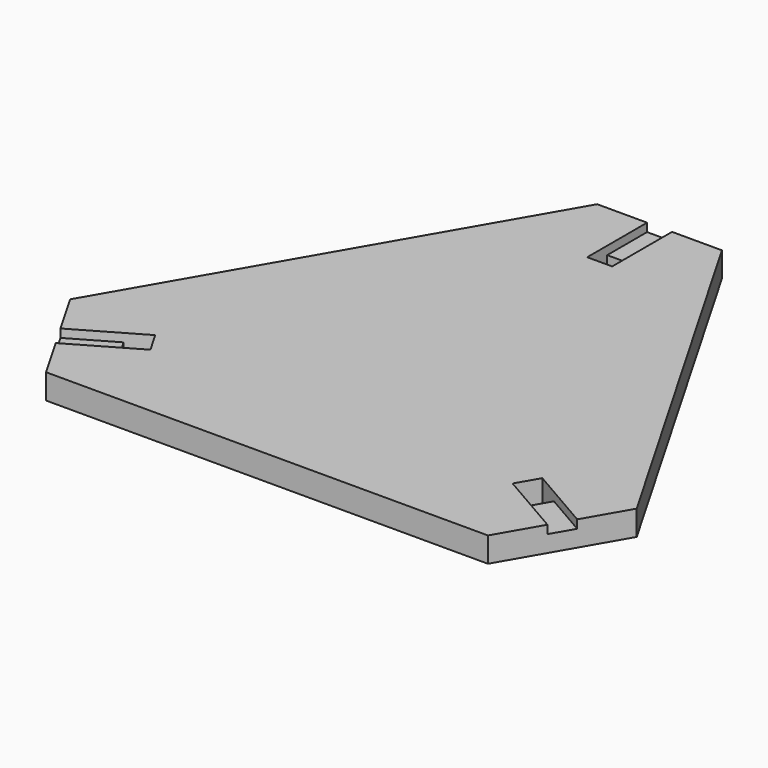
from build123d import *

# Parameters (mm, degrees)
F1_DEPTH = 19.05
F2_W     = 19.05
F2_H     = 19.05
F3_DEPTH = 19.05
F4_W     = 19.05
F4_H     = 38.1
F5_DEPTH = 6.35


with BuildPart() as f1:
    # F0 (on Top) → F1 (new body)
    with BuildSketch(Plane.XY):
        Polygon((47.625, 222.31108), (-47.625, 222.31108), (-216.339543, -69.91108), (-168.714543, -152.4), (168.714543, -152.4), (216.339543, -69.91108), align=None)
    extrude(amount=F1_DEPTH)

    # F2 (on face) → F3 (cut, through all)
    with BuildSketch(Plane.XY.offset(19.05)):
        with Locations((0, 174.68608)):
            Rectangle(F2_W, F2_H)
        Polygon((154.768975, -100.354432), (164.293975, -83.856648), (147.796191, -74.331648), (138.271191, -90.829432), align=None)
        Polygon((-164.293975, -83.856648), (-154.768975, -100.354432), (-138.271191, -90.829432), (-147.796191, -74.331648), align=None)
    extrude(amount=-F3_DEPTH, mode=Mode.SUBTRACT)

    # F4 (on face) → F5 (cut)
    with BuildSketch(Plane.XY.offset(19.05)):
        Polygon((-154.768975, -100.354432), (-164.293975, -83.856648), (-197.289543, -102.906648), (-187.764543, -119.404432), align=None)
        Polygon((197.289543, -102.906648), (164.293975, -83.856648), (154.768975, -100.354432), (187.764543, -119.404432), align=None)
        with Locations((0, 203.26108)):
            Rectangle(F4_W, F4_H)
    extrude(amount=-F5_DEPTH, mode=Mode.SUBTRACT)


solid = f1.part
